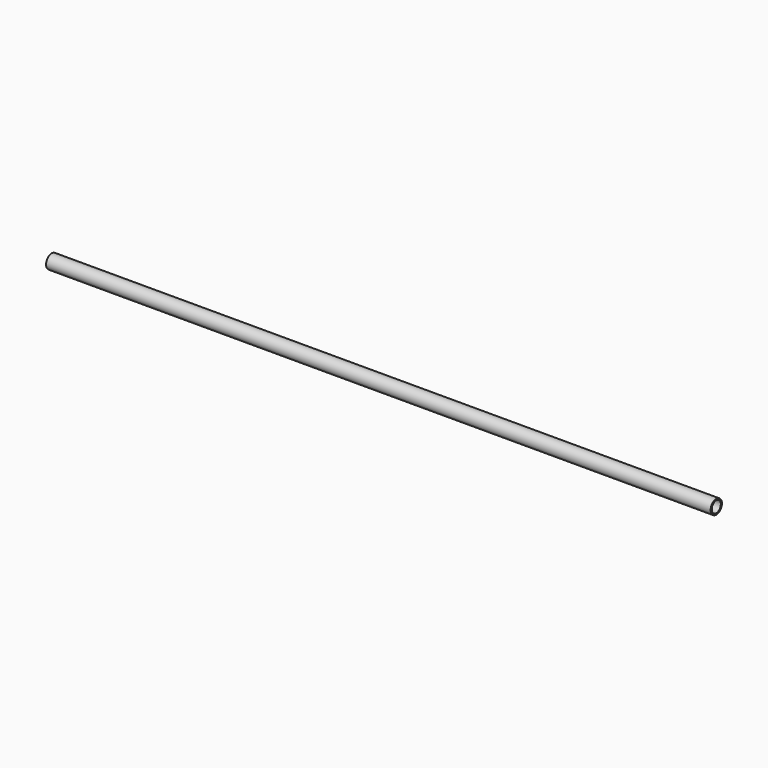
from build123d import *

# Parameters (mm, degrees)
F0_R     = 12.7
F1_DEPTH = 600
F2_T     = -2.5


with BuildPart() as f1:
    # F0 (on Right) → F1 (new body, symmetric)
    with BuildSketch(Plane.YZ):
        Circle(F0_R)
    extrude(amount=F1_DEPTH, both=True)

    # F2
    f2_openings = [f1.faces().sort_by_distance(p)[0] for p in [
        (600, 0, 0),
        (-600, 0, 0),
    ]]
    offset(amount=F2_T, openings=f2_openings)


solid = f1.part
